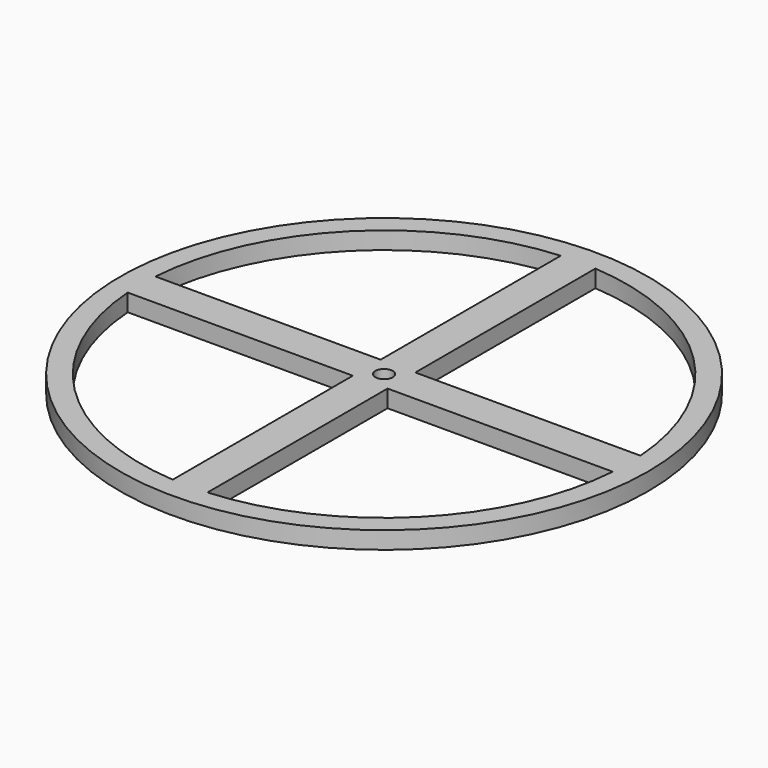
from build123d import *

# Parameters (mm, degrees)
F0_R     = 38
F0_R_2   = 1.25
F1_DEPTH = 2.5


with BuildPart() as f1:
    # F0 (on Top) → F1 (new body)
    with BuildSketch(Plane.XY):
        Circle(F0_R)
        with BuildLine():
            Line((-34.9106, -2.5), (-2.5, -2.5))
            Line((-2.5, -2.5), (-2.5, -34.9106))
            ThreePointArc((-2.5, -34.9106), (-24.748737, -24.748737), (-34.9106, -2.5))
        make_face(mode=Mode.SUBTRACT)
        with BuildLine():
            Line((2.5, -34.9106), (2.5, -2.5))
            Line((2.5, -2.5), (34.9106, -2.5))
            ThreePointArc((34.9106, -2.5), (24.748737, -24.748737), (2.5, -34.9106))
        make_face(mode=Mode.SUBTRACT)
        with BuildLine():
            ThreePointArc((-34.9106, 2.5), (-24.748737, 24.748737), (-2.5, 34.9106))
            Line((-2.5, 34.9106), (-2.5, 2.5))
            Line((-2.5, 2.5), (-34.9106, 2.5))
        make_face(mode=Mode.SUBTRACT)
        Circle(F0_R_2, mode=Mode.SUBTRACT)
        with BuildLine():
            Line((2.5, 2.5), (2.5, 34.9106))
            ThreePointArc((2.5, 34.9106), (24.748737, 24.748737), (34.9106, 2.5))
            Line((34.9106, 2.5), (2.5, 2.5))
        make_face(mode=Mode.SUBTRACT)
    extrude(amount=F1_DEPTH)


solid = f1.part
